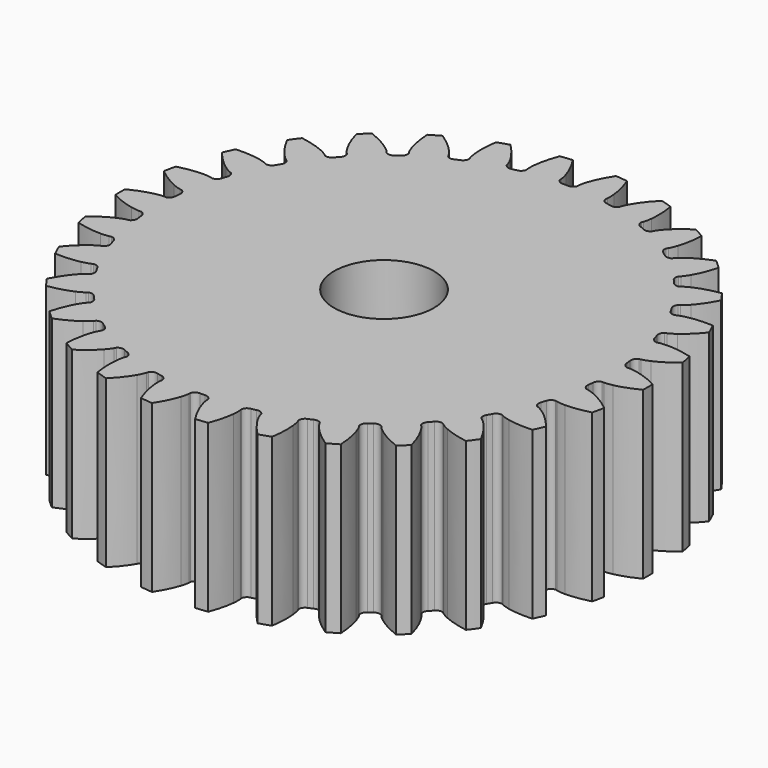
from build123d import *

# Parameters (mm, degrees)
SECOND_SUN_BORE_R        = 3
SECOND_SUN_BORE_DEPTH    = 10.1
SECOND_SUN_TRIMMED_DEPTH = 10


with BuildPart() as second_sun_bore:
    # second_sun_bore → second_sun_bore (new body)
    with BuildSketch(Plane.XY):
        Circle(SECOND_SUN_BORE_R)
    extrude(amount=SECOND_SUN_BORE_DEPTH)


with BuildPart() as second_sun:
    # second_sun_involute → second_sun_trimmed (new body)
    with BuildSketch(Plane.XY):
        with BuildLine():
            Line((13.851938, -0.933148), (13.966969, -0.940138))
            add(Edge.make_bspline(
                [(13.966969, -0.940138), (14.021734, -0.940856), (14.186816, -0.937099), (14.461564, -0.880308)],
                knots=[0, 0, 0, 0, 1, 1, 1, 1], degree=3))
            add(Edge.make_bspline(
                [(14.461564, -0.880308), (14.790999, -0.81146), (15.267757, -0.666986), (15.863465, -0.365247)],
                knots=[0, 0, 0, 0, 1, 1, 1, 1], degree=3))
            ThreePointArc((15.863465, -0.365247), (15.867669, 0), (15.863465, 0.365247))
            add(Edge.make_bspline(
                [(15.863465, 0.365247), (15.267757, 0.666986), (14.790999, 0.81146), (14.461564, 0.880308)],
                knots=[0, 0, 0, 0, 1, 1, 1, 1], degree=3))
            add(Edge.make_bspline(
                [(14.461564, 0.880308), (14.186816, 0.937099), (14.021734, 0.940856), (13.966969, 0.940138)],
                knots=[0, 0, 0, 0, 1, 1, 1, 1], degree=3))
            Line((13.966969, 0.940138), (13.851938, 0.933148))
            ThreePointArc((13.851938, 0.933148), (13.657135, 1.05973), (13.575467, 1.277218))
            ThreePointArc((13.575467, 1.277218), (13.56072, 1.425289), (13.544359, 1.57319))
            ThreePointArc((13.544359, 1.57319), (13.579024, 1.802906), (13.743252, 1.967223))
            Line((13.743252, 1.967223), (13.857223, 1.984302))
            add(Edge.make_bspline(
                [(13.857223, 1.984302), (13.910941, 1.994987), (14.071634, 2.032984), (14.328571, 2.145657)],
                knots=[0, 0, 0, 0, 1, 1, 1, 1], degree=3))
            add(Edge.make_bspline(
                [(14.328571, 2.145657), (14.636492, 2.281494), (15.072794, 2.521934), (15.592749, 2.940934)],
                knots=[0, 0, 0, 0, 1, 1, 1, 1], degree=3))
            ThreePointArc((15.592749, 2.940934), (15.520923, 3.299074), (15.440871, 3.655466))
            add(Edge.make_bspline(
                [(15.440871, 3.655466), (14.795445, 3.826756), (14.299068, 3.868949), (13.962518, 3.8678)],
                knots=[0, 0, 0, 0, 1, 1, 1, 1], degree=3))
            add(Edge.make_bspline(
                [(13.962518, 3.8678), (13.681966, 3.866226), (13.519711, 3.835579), (13.466292, 3.82349)],
                knots=[0, 0, 0, 0, 1, 1, 1, 1], degree=3))
            Line((13.466292, 3.82349), (13.355227, 3.792736))
            ThreePointArc((13.355227, 3.792736), (13.138364, 3.87605), (13.013262, 4.071806))
            ThreePointArc((13.013262, 4.071806), (12.968052, 4.213575), (12.921298, 4.354843))
            ThreePointArc((12.921298, 4.354843), (12.907445, 4.586746), (13.03392, 4.781617))
            Line((13.03392, 4.781617), (13.14185, 4.822019))
            add(Edge.make_bspline(
                [(13.14185, 4.822019), (13.192172, 4.843638), (13.341454, 4.914215), (13.56935, 5.077846)],
                knots=[0, 0, 0, 0, 1, 1, 1, 1], degree=3))
            add(Edge.make_bspline(
                [(13.56935, 5.077846), (13.8423, 5.274736), (14.219077, 5.600634), (14.640556, 6.118582)],
                knots=[0, 0, 0, 0, 1, 1, 1, 1], degree=3))
            ThreePointArc((14.640556, 6.118582), (14.495837, 6.453962), (14.343437, 6.785923))
            add(Edge.make_bspline(
                [(14.343437, 6.785923), (13.676502, 6.819278), (13.182199, 6.757347), (12.853243, 6.68625)],
                knots=[0, 0, 0, 0, 1, 1, 1, 1], degree=3))
            add(Edge.make_bspline(
                [(12.853243, 6.68625), (12.579149, 6.62638), (12.426811, 6.562668), (12.377073, 6.539737)],
                knots=[0, 0, 0, 0, 1, 1, 1, 1], degree=3))
            Line((12.377073, 6.539737), (12.274829, 6.486564))
            ThreePointArc((12.274829, 6.486564), (12.045383, 6.522969), (11.882315, 6.688437))
            ThreePointArc((11.882315, 6.688437), (11.808617, 6.817708), (11.733514, 6.946168))
            ThreePointArc((11.733514, 6.946168), (11.671748, 7.170123), (11.754944, 7.387032))
            Line((11.754944, 7.387032), (11.852115, 7.448991))
            add(Edge.make_bspline(
                [(11.852115, 7.448991), (11.896843, 7.4806), (12.028188, 7.580672), (12.217084, 7.78811)],
                knots=[0, 0, 0, 0, 1, 1, 1, 1], degree=3))
            add(Edge.make_bspline(
                [(12.217084, 7.78811), (12.443133, 8.037446), (12.743919, 8.434559), (13.0485, 9.028819)],
                knots=[0, 0, 0, 0, 1, 1, 1, 1], degree=3))
            ThreePointArc((13.0485, 9.028819), (12.837214, 9.326782), (12.619125, 9.619802))
            add(Edge.make_bspline(
                [(12.619125, 9.619802), (11.95983, 9.513765), (11.489205, 9.350416), (11.182219, 9.212479)],
                knots=[0, 0, 0, 0, 1, 1, 1, 1], degree=3))
            add(Edge.make_bspline(
                [(11.182219, 9.212479), (10.926562, 9.09693), (10.7908, 9.002937), (10.746916, 8.970166)],
                knots=[0, 0, 0, 0, 1, 1, 1, 1], degree=3))
            Line((10.746916, 8.970166), (10.657962, 8.896897))
            ThreePointArc((10.657962, 8.896897), (10.425961, 8.884802), (10.232053, 9.012751))
            ThreePointArc((10.232053, 9.012751), (10.133089, 9.123875), (10.032919, 9.233912))
            ThreePointArc((10.032919, 9.233912), (9.92594, 9.440132), (9.96222, 9.669598))
            Line((9.96222, 9.669598), (10.044386, 9.750406))
            add(Edge.make_bspline(
                [(10.044386, 9.750406), (10.081564, 9.790624), (10.189233, 9.915817), (10.330872, 10.157995)],
                knots=[0, 0, 0, 0, 1, 1, 1, 1], degree=3))
            add(Edge.make_bspline(
                [(10.330872, 10.157995), (10.500142, 10.448882), (10.711791, 10.899853), (10.886161, 11.544453)],
                knots=[0, 0, 0, 0, 1, 1, 1, 1], degree=3))
            ThreePointArc((10.886161, 11.544453), (10.617543, 11.791976), (10.343298, 12.03325))
            add(Edge.make_bspline(
                [(10.343298, 12.03325), (9.720456, 11.792455), (9.294078, 11.534827), (9.022479, 11.336078)],
                knots=[0, 0, 0, 0, 1, 1, 1, 1], degree=3))
            add(Edge.make_bspline(
                [(9.022479, 11.336078), (8.796432, 11.169901), (8.683179, 11.049735), (8.647068, 11.008556)],
                knots=[0, 0, 0, 0, 1, 1, 1, 1], degree=3))
            Line((8.647068, 11.008556), (8.575291, 10.918394))
            ThreePointArc((8.575291, 10.918394), (8.350874, 10.858327), (8.134602, 10.943164))
            ThreePointArc((8.134602, 10.943164), (8.014697, 11.031284), (7.893837, 11.11809))
            ThreePointArc((7.893837, 11.11809), (7.746321, 11.297561), (7.734099, 11.529556))
            Line((7.734099, 11.529556), (7.797668, 11.625681))
            add(Edge.make_bspline(
                [(7.797668, 11.625681), (7.825672, 11.67275), (7.90496, 11.817593), (7.993152, 12.083928)],
                knots=[0, 0, 0, 0, 1, 1, 1, 1], degree=3))
            add(Edge.make_bspline(
                [(7.993152, 12.083928), (8.098244, 12.403651), (8.211505, 12.888772), (8.248046, 13.55554)],
                knots=[0, 0, 0, 0, 1, 1, 1, 1], degree=3))
            ThreePointArc((8.248046, 13.55554), (7.933835, 13.741805), (7.615419, 13.920787))
            add(Edge.make_bspline(
                [(7.615419, 13.920787), (7.056251, 13.555758), (6.692755, 13.215111), (6.468413, 12.964236)],
                knots=[0, 0, 0, 0, 1, 1, 1, 1], degree=3))
            add(Edge.make_bspline(
                [(6.468413, 12.964236), (6.281856, 12.754693), (6.196062, 12.613606), (6.169301, 12.565819)],
                knots=[0, 0, 0, 0, 1, 1, 1, 1], degree=3))
            Line((6.169301, 12.565819), (6.117839, 12.462704))
            ThreePointArc((6.117839, 12.462704), (5.910815, 12.357291), (5.68163, 12.395308))
            ThreePointArc((5.68163, 12.395308), (5.546024, 12.456573), (5.409757, 12.516354))
            ThreePointArc((5.409757, 12.516354), (5.22815, 12.661233), (5.167961, 12.885617))
            Line((5.167961, 12.885617), (5.210155, 12.992859))
            add(Edge.make_bspline(
                [(5.210155, 12.992859), (5.227761, 13.044721), (5.275201, 13.202884), (5.306092, 13.481735)],
                knots=[0, 0, 0, 0, 1, 1, 1, 1], degree=3))
            add(Edge.make_bspline(
                [(5.306092, 13.481735), (5.342414, 13.816321), (5.352338, 14.314389), (5.249451, 14.974184)],
                knots=[0, 0, 0, 0, 1, 1, 1, 1], degree=3))
            ThreePointArc((5.249451, 14.974184), (4.903379, 15.09105), (4.554709, 15.199919))
            add(Edge.make_bspline(
                [(4.554709, 15.199919), (4.083655, 14.726609), (3.798926, 14.317831), (3.631646, 14.025795)],
                knots=[0, 0, 0, 0, 1, 1, 1, 1], degree=3))
            add(Edge.make_bspline(
                [(3.631646, 14.025795), (3.492733, 13.782043), (3.438147, 13.626202), (3.421907, 13.573896)],
                knots=[0, 0, 0, 0, 1, 1, 1, 1], degree=3))
            Line((3.421907, 13.573896), (3.393008, 13.462334))
            ThreePointArc((3.393008, 13.462334), (3.212424, 13.316182), (2.980343, 13.305718))
            ThreePointArc((2.980343, 13.305718), (2.834963, 13.33745), (2.689244, 13.367593))
            ThreePointArc((2.689244, 13.367593), (2.481484, 13.471548), (2.375958, 13.678515))
            Line((2.375958, 13.678515), (2.394934, 13.792186))
            add(Edge.make_bspline(
                [(2.394934, 13.792186), (2.401372, 13.846576), (2.414892, 14.011146), (2.387131, 14.290325)],
                knots=[0, 0, 0, 0, 1, 1, 1, 1], degree=3))
            add(Edge.make_bspline(
                [(2.387131, 14.290325), (2.353095, 14.625152), (2.259248, 15.114399), (2.02143, 15.738384)],
                knots=[0, 0, 0, 0, 1, 1, 1, 1], degree=3))
            ThreePointArc((2.02143, 15.738384), (1.658623, 15.780744), (1.294937, 15.814742))
            add(Edge.make_bspline(
                [(1.294937, 15.814742), (0.932583, 15.253837), (0.739066, 14.794793), (0.636159, 14.47436)],
                knots=[0, 0, 0, 0, 1, 1, 1, 1], degree=3))
            add(Edge.make_bspline(
                [(0.636159, 14.47436), (0.550961, 14.207053), (0.529968, 14.043268), (0.524958, 13.988728)],
                knots=[0, 0, 0, 0, 1, 1, 1, 1], degree=3))
            Line((0.524958, 13.988728), (0.519886, 13.873596))
            ThreePointArc((0.519886, 13.873596), (0.373635, 13.693092), (0.148801, 13.634605))
            ThreePointArc((0.148801, 13.634605), (0, 13.635417), (-0.148801, 13.634605))
            ThreePointArc((-0.148801, 13.634605), (-0.373635, 13.693092), (-0.519886, 13.873596))
            Line((-0.519886, 13.873596), (-0.524958, 13.988728))
            add(Edge.make_bspline(
                [(-0.524958, 13.988728), (-0.529968, 14.043268), (-0.550961, 14.207053), (-0.636159, 14.47436)],
                knots=[0, 0, 0, 0, 1, 1, 1, 1], degree=3))
            add(Edge.make_bspline(
                [(-0.636159, 14.47436), (-0.739066, 14.794793), (-0.932583, 15.253837), (-1.294937, 15.814742)],
                knots=[0, 0, 0, 0, 1, 1, 1, 1], degree=3))
            ThreePointArc((-1.294937, 15.814742), (-1.658623, 15.780744), (-2.02143, 15.738384))
            add(Edge.make_bspline(
                [(-2.02143, 15.738384), (-2.259248, 15.114399), (-2.353095, 14.625152), (-2.387131, 14.290325)],
                knots=[0, 0, 0, 0, 1, 1, 1, 1], degree=3))
            add(Edge.make_bspline(
                [(-2.387131, 14.290325), (-2.414892, 14.011146), (-2.401372, 13.846576), (-2.394934, 13.792186)],
                knots=[0, 0, 0, 0, 1, 1, 1, 1], degree=3))
            Line((-2.394934, 13.792186), (-2.375958, 13.678515))
            ThreePointArc((-2.375958, 13.678515), (-2.481484, 13.471548), (-2.689244, 13.367593))
            ThreePointArc((-2.689244, 13.367593), (-2.834963, 13.33745), (-2.980343, 13.305718))
            ThreePointArc((-2.980343, 13.305718), (-3.212424, 13.316182), (-3.393008, 13.462334))
            Line((-3.393008, 13.462334), (-3.421907, 13.573896))
            add(Edge.make_bspline(
                [(-3.421907, 13.573896), (-3.438147, 13.626202), (-3.492733, 13.782043), (-3.631646, 14.025795)],
                knots=[0, 0, 0, 0, 1, 1, 1, 1], degree=3))
            add(Edge.make_bspline(
                [(-3.631646, 14.025795), (-3.798926, 14.317831), (-4.083655, 14.726609), (-4.554709, 15.199919)],
                knots=[0, 0, 0, 0, 1, 1, 1, 1], degree=3))
            ThreePointArc((-4.554709, 15.199919), (-4.903379, 15.09105), (-5.249451, 14.974184))
            add(Edge.make_bspline(
                [(-5.249451, 14.974184), (-5.352338, 14.314389), (-5.342414, 13.816321), (-5.306092, 13.481735)],
                knots=[0, 0, 0, 0, 1, 1, 1, 1], degree=3))
            add(Edge.make_bspline(
                [(-5.306092, 13.481735), (-5.275201, 13.202884), (-5.227761, 13.044721), (-5.210155, 12.992859)],
                knots=[0, 0, 0, 0, 1, 1, 1, 1], degree=3))
            Line((-5.210155, 12.992859), (-5.167961, 12.885617))
            ThreePointArc((-5.167961, 12.885617), (-5.22815, 12.661233), (-5.409757, 12.516354))
            ThreePointArc((-5.409757, 12.516354), (-5.546024, 12.456573), (-5.68163, 12.395308))
            ThreePointArc((-5.68163, 12.395308), (-5.910815, 12.357291), (-6.117839, 12.462704))
            Line((-6.117839, 12.462704), (-6.169301, 12.565819))
            add(Edge.make_bspline(
                [(-6.169301, 12.565819), (-6.196062, 12.613606), (-6.281856, 12.754693), (-6.468413, 12.964236)],
                knots=[0, 0, 0, 0, 1, 1, 1, 1], degree=3))
            add(Edge.make_bspline(
                [(-6.468413, 12.964236), (-6.692755, 13.215111), (-7.056251, 13.555758), (-7.615419, 13.920787)],
                knots=[0, 0, 0, 0, 1, 1, 1, 1], degree=3))
            ThreePointArc((-7.615419, 13.920787), (-7.933835, 13.741805), (-8.248046, 13.55554))
            add(Edge.make_bspline(
                [(-8.248046, 13.55554), (-8.211505, 12.888772), (-8.098244, 12.403651), (-7.993152, 12.083928)],
                knots=[0, 0, 0, 0, 1, 1, 1, 1], degree=3))
            add(Edge.make_bspline(
                [(-7.993152, 12.083928), (-7.90496, 11.817593), (-7.825672, 11.67275), (-7.797668, 11.625681)],
                knots=[0, 0, 0, 0, 1, 1, 1, 1], degree=3))
            Line((-7.797668, 11.625681), (-7.734099, 11.529556))
            ThreePointArc((-7.734099, 11.529556), (-7.746321, 11.297561), (-7.893837, 11.11809))
            ThreePointArc((-7.893837, 11.11809), (-8.014697, 11.031284), (-8.134602, 10.943164))
            ThreePointArc((-8.134602, 10.943164), (-8.350874, 10.858327), (-8.575291, 10.918394))
            Line((-8.575291, 10.918394), (-8.647068, 11.008556))
            add(Edge.make_bspline(
                [(-8.647068, 11.008556), (-8.683179, 11.049735), (-8.796432, 11.169901), (-9.022479, 11.336078)],
                knots=[0, 0, 0, 0, 1, 1, 1, 1], degree=3))
            add(Edge.make_bspline(
                [(-9.022479, 11.336078), (-9.294078, 11.534827), (-9.720456, 11.792455), (-10.343298, 12.03325)],
                knots=[0, 0, 0, 0, 1, 1, 1, 1], degree=3))
            ThreePointArc((-10.343298, 12.03325), (-10.617543, 11.791976), (-10.886161, 11.544453))
            add(Edge.make_bspline(
                [(-10.886161, 11.544453), (-10.711791, 10.899853), (-10.500142, 10.448882), (-10.330872, 10.157995)],
                knots=[0, 0, 0, 0, 1, 1, 1, 1], degree=3))
            add(Edge.make_bspline(
                [(-10.330872, 10.157995), (-10.189233, 9.915817), (-10.081564, 9.790624), (-10.044386, 9.750406)],
                knots=[0, 0, 0, 0, 1, 1, 1, 1], degree=3))
            Line((-10.044386, 9.750406), (-9.96222, 9.669598))
            ThreePointArc((-9.96222, 9.669598), (-9.92594, 9.440132), (-10.032919, 9.233912))
            ThreePointArc((-10.032919, 9.233912), (-10.133089, 9.123875), (-10.232053, 9.012751))
            ThreePointArc((-10.232053, 9.012751), (-10.425961, 8.884802), (-10.657962, 8.896897))
            Line((-10.657962, 8.896897), (-10.746916, 8.970166))
            add(Edge.make_bspline(
                [(-10.746916, 8.970166), (-10.7908, 9.002937), (-10.926562, 9.09693), (-11.182219, 9.212479)],
                knots=[0, 0, 0, 0, 1, 1, 1, 1], degree=3))
            add(Edge.make_bspline(
                [(-11.182219, 9.212479), (-11.489205, 9.350416), (-11.95983, 9.513765), (-12.619125, 9.619802)],
                knots=[0, 0, 0, 0, 1, 1, 1, 1], degree=3))
            ThreePointArc((-12.619125, 9.619802), (-12.837214, 9.326782), (-13.0485, 9.028819))
            add(Edge.make_bspline(
                [(-13.0485, 9.028819), (-12.743919, 8.434559), (-12.443133, 8.037446), (-12.217084, 7.78811)],
                knots=[0, 0, 0, 0, 1, 1, 1, 1], degree=3))
            add(Edge.make_bspline(
                [(-12.217084, 7.78811), (-12.028188, 7.580672), (-11.896843, 7.4806), (-11.852115, 7.448991)],
                knots=[0, 0, 0, 0, 1, 1, 1, 1], degree=3))
            Line((-11.852115, 7.448991), (-11.754944, 7.387032))
            ThreePointArc((-11.754944, 7.387032), (-11.671748, 7.170123), (-11.733514, 6.946168))
            ThreePointArc((-11.733514, 6.946168), (-11.808617, 6.817708), (-11.882315, 6.688437))
            ThreePointArc((-11.882315, 6.688437), (-12.045383, 6.522969), (-12.274829, 6.486564))
            Line((-12.274829, 6.486564), (-12.377073, 6.539737))
            add(Edge.make_bspline(
                [(-12.377073, 6.539737), (-12.426811, 6.562668), (-12.579149, 6.62638), (-12.853243, 6.68625)],
                knots=[0, 0, 0, 0, 1, 1, 1, 1], degree=3))
            add(Edge.make_bspline(
                [(-12.853243, 6.68625), (-13.182199, 6.757347), (-13.676502, 6.819278), (-14.343437, 6.785923)],
                knots=[0, 0, 0, 0, 1, 1, 1, 1], degree=3))
            ThreePointArc((-14.343437, 6.785923), (-14.495837, 6.453962), (-14.640556, 6.118582))
            add(Edge.make_bspline(
                [(-14.640556, 6.118582), (-14.219077, 5.600634), (-13.8423, 5.274736), (-13.56935, 5.077846)],
                knots=[0, 0, 0, 0, 1, 1, 1, 1], degree=3))
            add(Edge.make_bspline(
                [(-13.56935, 5.077846), (-13.341454, 4.914215), (-13.192172, 4.843638), (-13.14185, 4.822019)],
                knots=[0, 0, 0, 0, 1, 1, 1, 1], degree=3))
            Line((-13.14185, 4.822019), (-13.03392, 4.781617))
            ThreePointArc((-13.03392, 4.781617), (-12.907445, 4.586746), (-12.921298, 4.354843))
            ThreePointArc((-12.921298, 4.354843), (-12.968052, 4.213575), (-13.013262, 4.071806))
            ThreePointArc((-13.013262, 4.071806), (-13.138364, 3.87605), (-13.355227, 3.792736))
            Line((-13.355227, 3.792736), (-13.466292, 3.82349))
            add(Edge.make_bspline(
                [(-13.466292, 3.82349), (-13.519711, 3.835579), (-13.681966, 3.866226), (-13.962518, 3.8678)],
                knots=[0, 0, 0, 0, 1, 1, 1, 1], degree=3))
            add(Edge.make_bspline(
                [(-13.962518, 3.8678), (-14.299068, 3.868949), (-14.795445, 3.826756), (-15.440871, 3.655466)],
                knots=[0, 0, 0, 0, 1, 1, 1, 1], degree=3))
            ThreePointArc((-15.440871, 3.655466), (-15.520923, 3.299074), (-15.592749, 2.940934))
            add(Edge.make_bspline(
                [(-15.592749, 2.940934), (-15.072794, 2.521934), (-14.636492, 2.281494), (-14.328571, 2.145657)],
                knots=[0, 0, 0, 0, 1, 1, 1, 1], degree=3))
            add(Edge.make_bspline(
                [(-14.328571, 2.145657), (-14.071634, 2.032984), (-13.910941, 1.994987), (-13.857223, 1.984302)],
                knots=[0, 0, 0, 0, 1, 1, 1, 1], degree=3))
            Line((-13.857223, 1.984302), (-13.743252, 1.967223))
            ThreePointArc((-13.743252, 1.967223), (-13.579024, 1.802906), (-13.544359, 1.57319))
            ThreePointArc((-13.544359, 1.57319), (-13.56072, 1.425289), (-13.575467, 1.277218))
            ThreePointArc((-13.575467, 1.277218), (-13.657135, 1.05973), (-13.851938, 0.933148))
            Line((-13.851938, 0.933148), (-13.966969, 0.940138))
            add(Edge.make_bspline(
                [(-13.966969, 0.940138), (-14.021734, 0.940856), (-14.186816, 0.937099), (-14.461564, 0.880308)],
                knots=[0, 0, 0, 0, 1, 1, 1, 1], degree=3))
            add(Edge.make_bspline(
                [(-14.461564, 0.880308), (-14.790999, 0.81146), (-15.267757, 0.666986), (-15.863465, 0.365247)],
                knots=[0, 0, 0, 0, 1, 1, 1, 1], degree=3))
            ThreePointArc((-15.863465, 0.365247), (-15.867669, 0), (-15.863465, -0.365247))
            add(Edge.make_bspline(
                [(-15.863465, -0.365247), (-15.267757, -0.666986), (-14.790999, -0.81146), (-14.461564, -0.880308)],
                knots=[0, 0, 0, 0, 1, 1, 1, 1], degree=3))
            add(Edge.make_bspline(
                [(-14.461564, -0.880308), (-14.186816, -0.937099), (-14.021734, -0.940856), (-13.966969, -0.940138)],
                knots=[0, 0, 0, 0, 1, 1, 1, 1], degree=3))
            Line((-13.966969, -0.940138), (-13.851938, -0.933148))
            ThreePointArc((-13.851938, -0.933148), (-13.657135, -1.05973), (-13.575467, -1.277218))
            ThreePointArc((-13.575467, -1.277218), (-13.56072, -1.425289), (-13.544359, -1.57319))
            ThreePointArc((-13.544359, -1.57319), (-13.579024, -1.802906), (-13.743252, -1.967223))
            Line((-13.743252, -1.967223), (-13.857223, -1.984302))
            add(Edge.make_bspline(
                [(-13.857223, -1.984302), (-13.910941, -1.994987), (-14.071634, -2.032984), (-14.328571, -2.145657)],
                knots=[0, 0, 0, 0, 1, 1, 1, 1], degree=3))
            add(Edge.make_bspline(
                [(-14.328571, -2.145657), (-14.636492, -2.281494), (-15.072794, -2.521934), (-15.592749, -2.940934)],
                knots=[0, 0, 0, 0, 1, 1, 1, 1], degree=3))
            ThreePointArc((-15.592749, -2.940934), (-15.520923, -3.299074), (-15.440871, -3.655466))
            add(Edge.make_bspline(
                [(-15.440871, -3.655466), (-14.795445, -3.826756), (-14.299068, -3.868949), (-13.962518, -3.8678)],
                knots=[0, 0, 0, 0, 1, 1, 1, 1], degree=3))
            add(Edge.make_bspline(
                [(-13.962518, -3.8678), (-13.681966, -3.866226), (-13.519711, -3.835579), (-13.466292, -3.82349)],
                knots=[0, 0, 0, 0, 1, 1, 1, 1], degree=3))
            Line((-13.466292, -3.82349), (-13.355227, -3.792736))
            ThreePointArc((-13.355227, -3.792736), (-13.138364, -3.87605), (-13.013262, -4.071806))
            ThreePointArc((-13.013262, -4.071806), (-12.968052, -4.213575), (-12.921298, -4.354843))
            ThreePointArc((-12.921298, -4.354843), (-12.907445, -4.586746), (-13.03392, -4.781617))
            Line((-13.03392, -4.781617), (-13.14185, -4.822019))
            add(Edge.make_bspline(
                [(-13.14185, -4.822019), (-13.192172, -4.843638), (-13.341454, -4.914215), (-13.56935, -5.077846)],
                knots=[0, 0, 0, 0, 1, 1, 1, 1], degree=3))
            add(Edge.make_bspline(
                [(-13.56935, -5.077846), (-13.8423, -5.274736), (-14.219077, -5.600634), (-14.640556, -6.118582)],
                knots=[0, 0, 0, 0, 1, 1, 1, 1], degree=3))
            ThreePointArc((-14.640556, -6.118582), (-14.495837, -6.453962), (-14.343437, -6.785923))
            add(Edge.make_bspline(
                [(-14.343437, -6.785923), (-13.676502, -6.819278), (-13.182199, -6.757347), (-12.853243, -6.68625)],
                knots=[0, 0, 0, 0, 1, 1, 1, 1], degree=3))
            add(Edge.make_bspline(
                [(-12.853243, -6.68625), (-12.579149, -6.62638), (-12.426811, -6.562668), (-12.377073, -6.539737)],
                knots=[0, 0, 0, 0, 1, 1, 1, 1], degree=3))
            Line((-12.377073, -6.539737), (-12.274829, -6.486564))
            ThreePointArc((-12.274829, -6.486564), (-12.045383, -6.522969), (-11.882315, -6.688437))
            ThreePointArc((-11.882315, -6.688437), (-11.808617, -6.817708), (-11.733514, -6.946168))
            ThreePointArc((-11.733514, -6.946168), (-11.671748, -7.170123), (-11.754944, -7.387032))
            Line((-11.754944, -7.387032), (-11.852115, -7.448991))
            add(Edge.make_bspline(
                [(-11.852115, -7.448991), (-11.896843, -7.4806), (-12.028188, -7.580672), (-12.217084, -7.78811)],
                knots=[0, 0, 0, 0, 1, 1, 1, 1], degree=3))
            add(Edge.make_bspline(
                [(-12.217084, -7.78811), (-12.443133, -8.037446), (-12.743919, -8.434559), (-13.0485, -9.028819)],
                knots=[0, 0, 0, 0, 1, 1, 1, 1], degree=3))
            ThreePointArc((-13.0485, -9.028819), (-12.837214, -9.326782), (-12.619125, -9.619802))
            add(Edge.make_bspline(
                [(-12.619125, -9.619802), (-11.95983, -9.513765), (-11.489205, -9.350416), (-11.182219, -9.212479)],
                knots=[0, 0, 0, 0, 1, 1, 1, 1], degree=3))
            add(Edge.make_bspline(
                [(-11.182219, -9.212479), (-10.926562, -9.09693), (-10.7908, -9.002937), (-10.746916, -8.970166)],
                knots=[0, 0, 0, 0, 1, 1, 1, 1], degree=3))
            Line((-10.746916, -8.970166), (-10.657962, -8.896897))
            ThreePointArc((-10.657962, -8.896897), (-10.425961, -8.884802), (-10.232053, -9.012751))
            ThreePointArc((-10.232053, -9.012751), (-10.133089, -9.123875), (-10.032919, -9.233912))
            ThreePointArc((-10.032919, -9.233912), (-9.92594, -9.440132), (-9.96222, -9.669598))
            Line((-9.96222, -9.669598), (-10.044386, -9.750406))
            add(Edge.make_bspline(
                [(-10.044386, -9.750406), (-10.081564, -9.790624), (-10.189233, -9.915817), (-10.330872, -10.157995)],
                knots=[0, 0, 0, 0, 1, 1, 1, 1], degree=3))
            add(Edge.make_bspline(
                [(-10.330872, -10.157995), (-10.500142, -10.448882), (-10.711791, -10.899853), (-10.886161, -11.544453)],
                knots=[0, 0, 0, 0, 1, 1, 1, 1], degree=3))
            ThreePointArc((-10.886161, -11.544453), (-10.617543, -11.791976), (-10.343298, -12.03325))
            add(Edge.make_bspline(
                [(-10.343298, -12.03325), (-9.720456, -11.792455), (-9.294078, -11.534827), (-9.022479, -11.336078)],
                knots=[0, 0, 0, 0, 1, 1, 1, 1], degree=3))
            add(Edge.make_bspline(
                [(-9.022479, -11.336078), (-8.796432, -11.169901), (-8.683179, -11.049735), (-8.647068, -11.008556)],
                knots=[0, 0, 0, 0, 1, 1, 1, 1], degree=3))
            Line((-8.647068, -11.008556), (-8.575291, -10.918394))
            ThreePointArc((-8.575291, -10.918394), (-8.350874, -10.858327), (-8.134602, -10.943164))
            ThreePointArc((-8.134602, -10.943164), (-8.014697, -11.031284), (-7.893837, -11.11809))
            ThreePointArc((-7.893837, -11.11809), (-7.746321, -11.297561), (-7.734099, -11.529556))
            Line((-7.734099, -11.529556), (-7.797668, -11.625681))
            add(Edge.make_bspline(
                [(-7.797668, -11.625681), (-7.825672, -11.67275), (-7.90496, -11.817593), (-7.993152, -12.083928)],
                knots=[0, 0, 0, 0, 1, 1, 1, 1], degree=3))
            add(Edge.make_bspline(
                [(-7.993152, -12.083928), (-8.098244, -12.403651), (-8.211505, -12.888772), (-8.248046, -13.55554)],
                knots=[0, 0, 0, 0, 1, 1, 1, 1], degree=3))
            ThreePointArc((-8.248046, -13.55554), (-7.933835, -13.741805), (-7.615419, -13.920787))
            add(Edge.make_bspline(
                [(-7.615419, -13.920787), (-7.056251, -13.555758), (-6.692755, -13.215111), (-6.468413, -12.964236)],
                knots=[0, 0, 0, 0, 1, 1, 1, 1], degree=3))
            add(Edge.make_bspline(
                [(-6.468413, -12.964236), (-6.281856, -12.754693), (-6.196062, -12.613606), (-6.169301, -12.565819)],
                knots=[0, 0, 0, 0, 1, 1, 1, 1], degree=3))
            Line((-6.169301, -12.565819), (-6.117839, -12.462704))
            ThreePointArc((-6.117839, -12.462704), (-5.910815, -12.357291), (-5.68163, -12.395308))
            ThreePointArc((-5.68163, -12.395308), (-5.546024, -12.456573), (-5.409757, -12.516354))
            ThreePointArc((-5.409757, -12.516354), (-5.22815, -12.661233), (-5.167961, -12.885617))
            Line((-5.167961, -12.885617), (-5.210155, -12.992859))
            add(Edge.make_bspline(
                [(-5.210155, -12.992859), (-5.227761, -13.044721), (-5.275201, -13.202884), (-5.306092, -13.481735)],
                knots=[0, 0, 0, 0, 1, 1, 1, 1], degree=3))
            add(Edge.make_bspline(
                [(-5.306092, -13.481735), (-5.342414, -13.816321), (-5.352338, -14.314389), (-5.249451, -14.974184)],
                knots=[0, 0, 0, 0, 1, 1, 1, 1], degree=3))
            ThreePointArc((-5.249451, -14.974184), (-4.903379, -15.09105), (-4.554709, -15.199919))
            add(Edge.make_bspline(
                [(-4.554709, -15.199919), (-4.083655, -14.726609), (-3.798926, -14.317831), (-3.631646, -14.025795)],
                knots=[0, 0, 0, 0, 1, 1, 1, 1], degree=3))
            add(Edge.make_bspline(
                [(-3.631646, -14.025795), (-3.492733, -13.782043), (-3.438147, -13.626202), (-3.421907, -13.573896)],
                knots=[0, 0, 0, 0, 1, 1, 1, 1], degree=3))
            Line((-3.421907, -13.573896), (-3.393008, -13.462334))
            ThreePointArc((-3.393008, -13.462334), (-3.212424, -13.316182), (-2.980343, -13.305718))
            ThreePointArc((-2.980343, -13.305718), (-2.834963, -13.33745), (-2.689244, -13.367593))
            ThreePointArc((-2.689244, -13.367593), (-2.481484, -13.471548), (-2.375958, -13.678515))
            Line((-2.375958, -13.678515), (-2.394934, -13.792186))
            add(Edge.make_bspline(
                [(-2.394934, -13.792186), (-2.401372, -13.846576), (-2.414892, -14.011146), (-2.387131, -14.290325)],
                knots=[0, 0, 0, 0, 1, 1, 1, 1], degree=3))
            add(Edge.make_bspline(
                [(-2.387131, -14.290325), (-2.353095, -14.625152), (-2.259248, -15.114399), (-2.02143, -15.738384)],
                knots=[0, 0, 0, 0, 1, 1, 1, 1], degree=3))
            ThreePointArc((-2.02143, -15.738384), (-1.658623, -15.780744), (-1.294937, -15.814742))
            add(Edge.make_bspline(
                [(-1.294937, -15.814742), (-0.932583, -15.253837), (-0.739066, -14.794793), (-0.636159, -14.47436)],
                knots=[0, 0, 0, 0, 1, 1, 1, 1], degree=3))
            add(Edge.make_bspline(
                [(-0.636159, -14.47436), (-0.550961, -14.207053), (-0.529968, -14.043268), (-0.524958, -13.988728)],
                knots=[0, 0, 0, 0, 1, 1, 1, 1], degree=3))
            Line((-0.524958, -13.988728), (-0.519886, -13.873596))
            ThreePointArc((-0.519886, -13.873596), (-0.373635, -13.693092), (-0.148801, -13.634605))
            ThreePointArc((-0.148801, -13.634605), (0, -13.635417), (0.148801, -13.634605))
            ThreePointArc((0.148801, -13.634605), (0.373635, -13.693092), (0.519886, -13.873596))
            Line((0.519886, -13.873596), (0.524958, -13.988728))
            add(Edge.make_bspline(
                [(0.524958, -13.988728), (0.529968, -14.043268), (0.550961, -14.207053), (0.636159, -14.47436)],
                knots=[0, 0, 0, 0, 1, 1, 1, 1], degree=3))
            add(Edge.make_bspline(
                [(0.636159, -14.47436), (0.739066, -14.794793), (0.932583, -15.253837), (1.294937, -15.814742)],
                knots=[0, 0, 0, 0, 1, 1, 1, 1], degree=3))
            ThreePointArc((1.294937, -15.814742), (1.658623, -15.780744), (2.02143, -15.738384))
            add(Edge.make_bspline(
                [(2.02143, -15.738384), (2.259248, -15.114399), (2.353095, -14.625152), (2.387131, -14.290325)],
                knots=[0, 0, 0, 0, 1, 1, 1, 1], degree=3))
            add(Edge.make_bspline(
                [(2.387131, -14.290325), (2.414892, -14.011146), (2.401372, -13.846576), (2.394934, -13.792186)],
                knots=[0, 0, 0, 0, 1, 1, 1, 1], degree=3))
            Line((2.394934, -13.792186), (2.375958, -13.678515))
            ThreePointArc((2.375958, -13.678515), (2.481484, -13.471548), (2.689244, -13.367593))
            ThreePointArc((2.689244, -13.367593), (2.834963, -13.33745), (2.980343, -13.305718))
            ThreePointArc((2.980343, -13.305718), (3.212424, -13.316182), (3.393008, -13.462334))
            Line((3.393008, -13.462334), (3.421907, -13.573896))
            add(Edge.make_bspline(
                [(3.421907, -13.573896), (3.438147, -13.626202), (3.492733, -13.782043), (3.631646, -14.025795)],
                knots=[0, 0, 0, 0, 1, 1, 1, 1], degree=3))
            add(Edge.make_bspline(
                [(3.631646, -14.025795), (3.798926, -14.317831), (4.083655, -14.726609), (4.554709, -15.199919)],
                knots=[0, 0, 0, 0, 1, 1, 1, 1], degree=3))
            ThreePointArc((4.554709, -15.199919), (4.903379, -15.09105), (5.249451, -14.974184))
            add(Edge.make_bspline(
                [(5.249451, -14.974184), (5.352338, -14.314389), (5.342414, -13.816321), (5.306092, -13.481735)],
                knots=[0, 0, 0, 0, 1, 1, 1, 1], degree=3))
            add(Edge.make_bspline(
                [(5.306092, -13.481735), (5.275201, -13.202884), (5.227761, -13.044721), (5.210155, -12.992859)],
                knots=[0, 0, 0, 0, 1, 1, 1, 1], degree=3))
            Line((5.210155, -12.992859), (5.167961, -12.885617))
            ThreePointArc((5.167961, -12.885617), (5.22815, -12.661233), (5.409757, -12.516354))
            ThreePointArc((5.409757, -12.516354), (5.546024, -12.456573), (5.68163, -12.395308))
            ThreePointArc((5.68163, -12.395308), (5.910815, -12.357291), (6.117839, -12.462704))
            Line((6.117839, -12.462704), (6.169301, -12.565819))
            add(Edge.make_bspline(
                [(6.169301, -12.565819), (6.196062, -12.613606), (6.281856, -12.754693), (6.468413, -12.964236)],
                knots=[0, 0, 0, 0, 1, 1, 1, 1], degree=3))
            add(Edge.make_bspline(
                [(6.468413, -12.964236), (6.692755, -13.215111), (7.056251, -13.555758), (7.615419, -13.920787)],
                knots=[0, 0, 0, 0, 1, 1, 1, 1], degree=3))
            ThreePointArc((7.615419, -13.920787), (7.933835, -13.741805), (8.248046, -13.55554))
            add(Edge.make_bspline(
                [(8.248046, -13.55554), (8.211505, -12.888772), (8.098244, -12.403651), (7.993152, -12.083928)],
                knots=[0, 0, 0, 0, 1, 1, 1, 1], degree=3))
            add(Edge.make_bspline(
                [(7.993152, -12.083928), (7.90496, -11.817593), (7.825672, -11.67275), (7.797668, -11.625681)],
                knots=[0, 0, 0, 0, 1, 1, 1, 1], degree=3))
            Line((7.797668, -11.625681), (7.734099, -11.529556))
            ThreePointArc((7.734099, -11.529556), (7.746321, -11.297561), (7.893837, -11.11809))
            ThreePointArc((7.893837, -11.11809), (8.014697, -11.031284), (8.134602, -10.943164))
            ThreePointArc((8.134602, -10.943164), (8.350874, -10.858327), (8.575291, -10.918394))
            Line((8.575291, -10.918394), (8.647068, -11.008556))
            add(Edge.make_bspline(
                [(8.647068, -11.008556), (8.683179, -11.049735), (8.796432, -11.169901), (9.022479, -11.336078)],
                knots=[0, 0, 0, 0, 1, 1, 1, 1], degree=3))
            add(Edge.make_bspline(
                [(9.022479, -11.336078), (9.294078, -11.534827), (9.720456, -11.792455), (10.343298, -12.03325)],
                knots=[0, 0, 0, 0, 1, 1, 1, 1], degree=3))
            ThreePointArc((10.343298, -12.03325), (10.617543, -11.791976), (10.886161, -11.544453))
            add(Edge.make_bspline(
                [(10.886161, -11.544453), (10.711791, -10.899853), (10.500142, -10.448882), (10.330872, -10.157995)],
                knots=[0, 0, 0, 0, 1, 1, 1, 1], degree=3))
            add(Edge.make_bspline(
                [(10.330872, -10.157995), (10.189233, -9.915817), (10.081564, -9.790624), (10.044386, -9.750406)],
                knots=[0, 0, 0, 0, 1, 1, 1, 1], degree=3))
            Line((10.044386, -9.750406), (9.96222, -9.669598))
            ThreePointArc((9.96222, -9.669598), (9.92594, -9.440132), (10.032919, -9.233912))
            ThreePointArc((10.032919, -9.233912), (10.133089, -9.123875), (10.232053, -9.012751))
            ThreePointArc((10.232053, -9.012751), (10.425961, -8.884802), (10.657962, -8.896897))
            Line((10.657962, -8.896897), (10.746916, -8.970166))
            add(Edge.make_bspline(
                [(10.746916, -8.970166), (10.7908, -9.002937), (10.926562, -9.09693), (11.182219, -9.212479)],
                knots=[0, 0, 0, 0, 1, 1, 1, 1], degree=3))
            add(Edge.make_bspline(
                [(11.182219, -9.212479), (11.489205, -9.350416), (11.95983, -9.513765), (12.619125, -9.619802)],
                knots=[0, 0, 0, 0, 1, 1, 1, 1], degree=3))
            ThreePointArc((12.619125, -9.619802), (12.837214, -9.326782), (13.0485, -9.028819))
            add(Edge.make_bspline(
                [(13.0485, -9.028819), (12.743919, -8.434559), (12.443133, -8.037446), (12.217084, -7.78811)],
                knots=[0, 0, 0, 0, 1, 1, 1, 1], degree=3))
            add(Edge.make_bspline(
                [(12.217084, -7.78811), (12.028188, -7.580672), (11.896843, -7.4806), (11.852115, -7.448991)],
                knots=[0, 0, 0, 0, 1, 1, 1, 1], degree=3))
            Line((11.852115, -7.448991), (11.754944, -7.387032))
            ThreePointArc((11.754944, -7.387032), (11.671748, -7.170123), (11.733514, -6.946168))
            ThreePointArc((11.733514, -6.946168), (11.808617, -6.817708), (11.882315, -6.688437))
            ThreePointArc((11.882315, -6.688437), (12.045383, -6.522969), (12.274829, -6.486564))
            Line((12.274829, -6.486564), (12.377073, -6.539737))
            add(Edge.make_bspline(
                [(12.377073, -6.539737), (12.426811, -6.562668), (12.579149, -6.62638), (12.853243, -6.68625)],
                knots=[0, 0, 0, 0, 1, 1, 1, 1], degree=3))
            add(Edge.make_bspline(
                [(12.853243, -6.68625), (13.182199, -6.757347), (13.676502, -6.819278), (14.343437, -6.785923)],
                knots=[0, 0, 0, 0, 1, 1, 1, 1], degree=3))
            ThreePointArc((14.343437, -6.785923), (14.495837, -6.453962), (14.640556, -6.118582))
            add(Edge.make_bspline(
                [(14.640556, -6.118582), (14.219077, -5.600634), (13.8423, -5.274736), (13.56935, -5.077846)],
                knots=[0, 0, 0, 0, 1, 1, 1, 1], degree=3))
            add(Edge.make_bspline(
                [(13.56935, -5.077846), (13.341454, -4.914215), (13.192172, -4.843638), (13.14185, -4.822019)],
                knots=[0, 0, 0, 0, 1, 1, 1, 1], degree=3))
            Line((13.14185, -4.822019), (13.03392, -4.781617))
            ThreePointArc((13.03392, -4.781617), (12.907445, -4.586746), (12.921298, -4.354843))
            ThreePointArc((12.921298, -4.354843), (12.968052, -4.213575), (13.013262, -4.071806))
            ThreePointArc((13.013262, -4.071806), (13.138364, -3.87605), (13.355227, -3.792736))
            Line((13.355227, -3.792736), (13.466292, -3.82349))
            add(Edge.make_bspline(
                [(13.466292, -3.82349), (13.519711, -3.835579), (13.681966, -3.866226), (13.962518, -3.8678)],
                knots=[0, 0, 0, 0, 1, 1, 1, 1], degree=3))
            add(Edge.make_bspline(
                [(13.962518, -3.8678), (14.299068, -3.868949), (14.795445, -3.826756), (15.440871, -3.655466)],
                knots=[0, 0, 0, 0, 1, 1, 1, 1], degree=3))
            ThreePointArc((15.440871, -3.655466), (15.520923, -3.299074), (15.592749, -2.940934))
            add(Edge.make_bspline(
                [(15.592749, -2.940934), (15.072794, -2.521934), (14.636492, -2.281494), (14.328571, -2.145657)],
                knots=[0, 0, 0, 0, 1, 1, 1, 1], degree=3))
            add(Edge.make_bspline(
                [(14.328571, -2.145657), (14.071634, -2.032984), (13.910941, -1.994987), (13.857223, -1.984302)],
                knots=[0, 0, 0, 0, 1, 1, 1, 1], degree=3))
            Line((13.857223, -1.984302), (13.743252, -1.967223))
            ThreePointArc((13.743252, -1.967223), (13.579024, -1.802906), (13.544359, -1.57319))
            ThreePointArc((13.544359, -1.57319), (13.56072, -1.425289), (13.575467, -1.277218))
            ThreePointArc((13.575467, -1.277218), (13.657135, -1.05973), (13.851938, -0.933148))
        make_face()
    extrude(amount=SECOND_SUN_TRIMMED_DEPTH)

    # second_sun: cut second_sun_bore
    add(second_sun_bore.part, mode=Mode.SUBTRACT)


with BuildPart() as second_sun_1:
    # second_sun placement: moved
    add(second_sun.part.moved(Location((0, 0, 10))))


solid = second_sun_1.part
